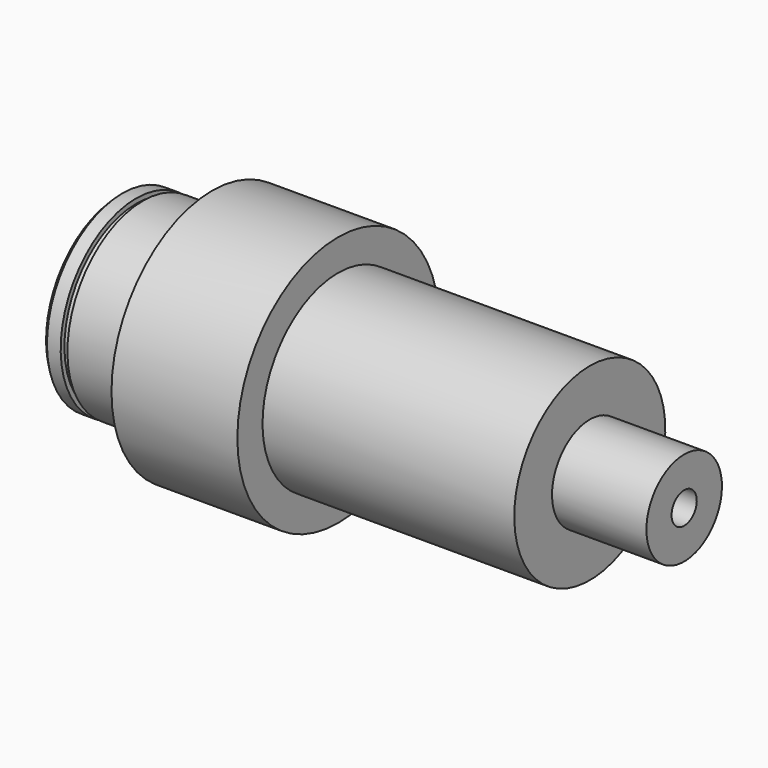
from build123d import *

# Parameters (mm, degrees)
F2_SIZE = 1.5


with BuildPart() as f1:
    # F0 (on Front) → F1 (revolve)
    with BuildSketch(Plane.XZ):
        Polygon((5.85, 30), (0, 30), (0, 5), (180, 5), (180, 15), (150, 15), (150, 30), (70, 30), (70, 40), (30, 40), (30, 30), (8, 30), (8, 28.5), (5.85, 28.5), align=None)
    revolve(axis=Axis((74.107222, 0, 0), (1, 0, 0)))

    # F2
    f2_edges = [f1.edges().sort_by_distance(p)[0] for p in [
        (0, 0, -30),
    ]]
    chamfer(f2_edges, length=F2_SIZE)


solid = f1.part
